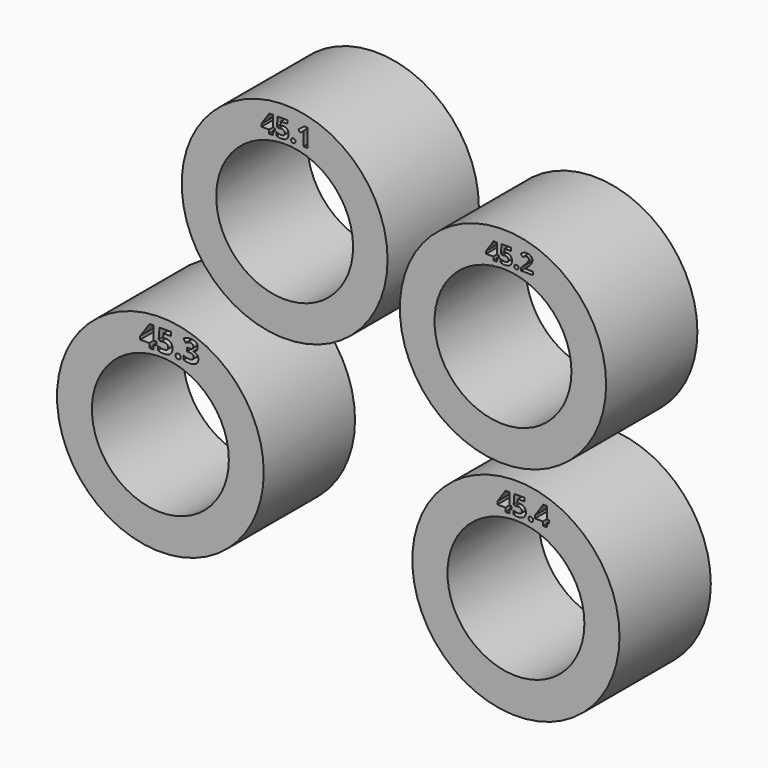
from build123d import *

# Parameters (mm, degrees)
F0_R     = 22.65
F0_R_2   = 15
F1_DEPTH = 25
F2_DEPTH = 25
F0_R_3   = 22.7
F0_R_4   = 22.6
F0_R_5   = 22.55


with BuildPart() as f1:
    # F0 (on Front) → F1 (new body)
    with BuildSketch(Plane.XZ):
        with Locations((-46.607144177, -19.3802528083)):
            Circle(F0_R)
        with Locations((-46.607144177, -19.3802528083)):
            Circle(F0_R_2, mode=Mode.SUBTRACT)
        Polygon((-47.500290726, -1.7571126155), (-47.500290726, -2.5264632786), (-48.0644812124, -2.5264632786), (-48.0644812124, -3.497896716), (-49.0328372471, -3.497896716), (-49.0328372471, -2.5264632786), (-51.0331489713, -2.5264632786), (-51.0331489713, -1.8371250844), (-48.9774439993, 1.1889875241), (-48.0644812124, 1.1889875241), (-48.0644812124, -1.7571126155), align=None, mode=Mode.SUBTRACT)
        with BuildLine():
            add(Edge.make_bspline(
                [(-43.127814457, -3.4414776674), (-43.2750168839, -3.2988913445), (-43.2750168839, -3.0393637207)],
                knots=[0, 0, 0, 1, 1, 1], degree=2))
            add(Edge.make_bspline(
                [(-43.2750168839, -3.0393637207), (-43.2750168839, -2.7706038891), (-43.1308918596, -2.6326336701)],
                knots=[0, 0, 0, 1, 1, 1], degree=2))
            add(Edge.make_bspline(
                [(-43.1308918596, -2.6326336701), (-42.9867668354, -2.4946634512), (-42.7108263975, -2.4946634512)],
                knots=[0, 0, 0, 1, 1, 1], degree=2))
            add(Edge.make_bspline(
                [(-42.7108263975, -2.4946634512), (-42.4451439685, -2.4946634512), (-42.2994802429, -2.6357110728)],
                knots=[0, 0, 0, 1, 1, 1], degree=2))
            add(Edge.make_bspline(
                [(-42.2994802429, -2.6357110728), (-42.1538165174, -2.7767586944), (-42.1538165174, -3.0393637207)],
                knots=[0, 0, 0, 1, 1, 1], degree=2))
            add(Edge.make_bspline(
                [(-42.1538165174, -3.0393637207), (-42.1538165174, -3.2927365392), (-42.3010189443, -3.4384002647)],
                knots=[0, 0, 0, 1, 1, 1], degree=2))
            add(Edge.make_bspline(
                [(-42.3010189443, -3.4384002647), (-42.4482213712, -3.5840639903), (-42.7108263975, -3.5840639903)],
                knots=[0, 0, 0, 1, 1, 1], degree=2))
            add(Edge.make_bspline(
                [(-42.7108263975, -3.5840639903), (-42.9806120301, -3.5840639903), (-43.127814457, -3.4414776674)],
                knots=[0, 0, 0, 1, 1, 1], degree=2))
        make_face(mode=Mode.SUBTRACT)
        with BuildLine():
            add(Edge.make_bspline(
                [(-45.9133767581, -0.5487191738), (-45.7174487892, -0.5035839349), (-45.4291987407, -0.5035839349)],
                knots=[0, 0, 0, 1, 1, 1], degree=2))
            add(Edge.make_bspline(
                [(-45.4291987407, -0.5035839349), (-44.7501185554, -0.5035839349), (-44.3474917083, -0.8851818639)],
                knots=[0, 0, 0, 1, 1, 1], degree=2))
            add(Edge.make_bspline(
                [(-44.3474917083, -0.8851818639), (-43.9448648613, -1.2667797928), (-43.9448648613, -1.9304729649)],
                knots=[0, 0, 0, 1, 1, 1], degree=2))
            add(Edge.make_bspline(
                [(-43.9448648613, -1.9304729649), (-43.9448648613, -2.7152106413), (-44.4290428786, -3.1388664065)],
                knots=[0, 0, 0, 1, 1, 1], degree=2))
            add(Edge.make_bspline(
                [(-44.4290428786, -3.1388664065), (-44.913220896, -3.5625221717), (-45.8138740723, -3.5625221717)],
                knots=[0, 0, 0, 1, 1, 1], degree=2))
            add(Edge.make_bspline(
                [(-45.8138740723, -3.5625221717), (-46.596560147, -3.5625221717), (-47.0766349608, -3.3091493533)],
                knots=[0, 0, 0, 1, 1, 1], degree=2))
            Line((-47.0766349608, -3.3091493533), (-47.0766349608, -2.452605615))
            add(Edge.make_bspline(
                [(-47.0766349608, -2.452605615), (-46.8242879433, -2.5869855308), (-46.4873123528, -2.6721270042)],
                knots=[0, 0, 0, 1, 1, 1], degree=2))
            add(Edge.make_bspline(
                [(-46.4873123528, -2.6721270042), (-46.1503367624, -2.7572684776), (-45.8497771033, -2.7572684776)],
                knots=[0, 0, 0, 1, 1, 1], degree=2))
            add(Edge.make_bspline(
                [(-45.8497771033, -2.7572684776), (-44.9419433207, -2.7572684776), (-44.9419433207, -2.0135628365)],
                knots=[0, 0, 0, 1, 1, 1], degree=2))
            add(Edge.make_bspline(
                [(-44.9419433207, -2.0135628365), (-44.9419433207, -1.3047344255), (-45.8815769307, -1.3047344255)],
                knots=[0, 0, 0, 1, 1, 1], degree=2))
            add(Edge.make_bspline(
                [(-45.8815769307, -1.3047344255), (-46.0508340766, -1.3047344255), (-46.2559942534, -1.3385858547)],
                knots=[0, 0, 0, 1, 1, 1], degree=2))
            add(Edge.make_bspline(
                [(-46.2559942534, -1.3385858547), (-46.4611544303, -1.3724372839), (-46.5893795408, -1.4114177175)],
                knots=[0, 0, 0, 1, 1, 1], degree=2))
            Line((-46.5893795408, -1.4114177175), (-46.9843128812, -1.1990769344))
            Line((-46.9843128812, -1.1990769344), (-46.8078751292, 1.1889875241))
            Line((-46.8078751292, 1.1889875241), (-44.265940538, 1.1889875241))
            Line((-44.265940538, 1.1889875241), (-44.265940538, 0.3488565999))
            Line((-44.265940538, 0.3488565999), (-45.9390217802, 0.3488565999))
            Line((-45.9390217802, 0.3488565999), (-46.0251890545, -0.5712867933))
            Line((-46.0251890545, -0.5712867933), (-45.9133767581, -0.5487191738))
        make_face(mode=Mode.SUBTRACT)
        with BuildLine():
            add(Edge.make_bspline(
                [(-38.843557064, 0.9607468273), (-38.4219529005, 0.6658290731), (-38.4219529005, 0.1406190204)],
                knots=[0, 0, 0, 1, 1, 1], degree=2))
            add(Edge.make_bspline(
                [(-38.4219529005, 0.1406190204), (-38.4219529005, -0.2984237581), (-38.68814823, -0.6061640233)],
                knots=[0, 0, 0, 1, 1, 1], degree=2))
            add(Edge.make_bspline(
                [(-38.68814823, -0.6061640233), (-38.9543435595, -0.9139042886), (-39.4354441742, -1.0298197885)],
                knots=[0, 0, 0, 1, 1, 1], degree=2))
            Line((-39.4354441742, -1.0298197885), (-39.4354441742, -1.0482842044))
            add(Edge.make_bspline(
                [(-39.4354441742, -1.0482842044), (-38.8671504843, -1.1190644655), (-38.5758230332, -1.393466202)],
                knots=[0, 0, 0, 1, 1, 1], degree=2))
            add(Edge.make_bspline(
                [(-38.5758230332, -1.393466202), (-38.284495582, -1.6678679385), (-38.284495582, -2.1325557391)],
                knots=[0, 0, 0, 1, 1, 1], degree=2))
            add(Edge.make_bspline(
                [(-38.284495582, -2.1325557391), (-38.284495582, -2.8085585218), (-38.7748284047, -3.1855403467)],
                knots=[0, 0, 0, 1, 1, 1], degree=2))
            add(Edge.make_bspline(
                [(-38.7748284047, -3.1855403467), (-39.2651612274, -3.5625221717), (-40.1750466117, -3.5625221717)],
                knots=[0, 0, 0, 1, 1, 1], degree=2))
            add(Edge.make_bspline(
                [(-40.1750466117, -3.5625221717), (-40.9382424696, -3.5625221717), (-41.528077978, -3.3091493533)],
                knots=[0, 0, 0, 1, 1, 1], degree=2))
            Line((-41.528077978, -3.3091493533), (-41.528077978, -2.4659410265))
            add(Edge.make_bspline(
                [(-41.528077978, -2.4659410265), (-41.2562407437, -2.6033983449), (-40.9290102616, -2.6900785197)],
                knots=[0, 0, 0, 1, 1, 1], degree=2))
            add(Edge.make_bspline(
                [(-40.9290102616, -2.6900785197), (-40.6017797795, -2.7767586944), (-40.2817299037, -2.7767586944)],
                knots=[0, 0, 0, 1, 1, 1], degree=2))
            add(Edge.make_bspline(
                [(-40.2817299037, -2.7767586944), (-39.7903712801, -2.7767586944), (-39.5564886785, -2.6100660507)],
                knots=[0, 0, 0, 1, 1, 1], degree=2))
            add(Edge.make_bspline(
                [(-39.5564886785, -2.6100660507), (-39.3226060769, -2.443373407), (-39.3226060769, -2.0740850887)],
                knots=[0, 0, 0, 1, 1, 1], degree=2))
            add(Edge.make_bspline(
                [(-39.3226060769, -2.0740850887), (-39.3226060769, -1.7448030048), (-39.591878809, -1.6068327859)],
                knots=[0, 0, 0, 1, 1, 1], degree=2))
            add(Edge.make_bspline(
                [(-39.591878809, -1.6068327859), (-39.8611515411, -1.468862567), (-40.4509870496, -1.468862567)],
                knots=[0, 0, 0, 1, 1, 1], degree=2))
            Line((-40.4509870496, -1.468862567), (-40.8069399564, -1.468862567))
            Line((-40.8069399564, -1.468862567), (-40.8069399564, -0.7087441118))
            Line((-40.8069399564, -0.7087441118), (-40.4448322442, -0.7087441118))
            add(Edge.make_bspline(
                [(-40.4448322442, -0.7087441118), (-39.9001319747, -0.7087441118), (-39.6482978576, -0.5661577889)],
                knots=[0, 0, 0, 1, 1, 1], degree=2))
            add(Edge.make_bspline(
                [(-39.6482978576, -0.5661577889), (-39.3964637406, -0.4235714659), (-39.3964637406, -0.077876568)],
                knots=[0, 0, 0, 1, 1, 1], degree=2))
            add(Edge.make_bspline(
                [(-39.3964637406, -0.077876568), (-39.3964637406, 0.454514091), (-40.0632343153, 0.454514091)],
                knots=[0, 0, 0, 1, 1, 1], degree=2))
            add(Edge.make_bspline(
                [(-40.0632343153, 0.454514091), (-40.2940395143, 0.454514091), (-40.5330511203, 0.3775790246)],
                knots=[0, 0, 0, 1, 1, 1], degree=2))
            add(Edge.make_bspline(
                [(-40.5330511203, 0.3775790246), (-40.7720627263, 0.3006439583), (-41.0633901774, 0.1118965956)],
                knots=[0, 0, 0, 1, 1, 1], degree=2))
            Line((-41.0633901774, 0.1118965956), (-41.5219231727, 0.7940541836))
            add(Edge.make_bspline(
                [(-41.5219231727, 0.7940541836), (-40.88079762, 1.2556645815), (-39.9924540543, 1.2556645815)],
                knots=[0, 0, 0, 1, 1, 1], degree=2))
            add(Edge.make_bspline(
                [(-39.9924540543, 1.2556645815), (-39.2651612274, 1.2556645815), (-38.843557064, 0.9607468273)],
                knots=[0, 0, 0, 1, 1, 1], degree=2))
        make_face(mode=Mode.SUBTRACT)
    extrude(amount=F1_DEPTH)

    # F0 (on Front) → F2 (join)
    with BuildSketch(Plane.XZ):
        with Locations((-46.607144177, -19.3802528083)):
            Circle(F0_R)
        with Locations((-46.607144177, -19.3802528083)):
            Circle(F0_R_2, mode=Mode.SUBTRACT)
        Polygon((-47.500290726, -1.7571126155), (-47.500290726, -2.5264632786), (-48.0644812124, -2.5264632786), (-48.0644812124, -3.497896716), (-49.0328372471, -3.497896716), (-49.0328372471, -2.5264632786), (-51.0331489713, -2.5264632786), (-51.0331489713, -1.8371250844), (-48.9774439993, 1.1889875241), (-48.0644812124, 1.1889875241), (-48.0644812124, -1.7571126155), align=None, mode=Mode.SUBTRACT)
        with BuildLine():
            add(Edge.make_bspline(
                [(-43.127814457, -3.4414776674), (-43.2750168839, -3.2988913445), (-43.2750168839, -3.0393637207)],
                knots=[0, 0, 0, 1, 1, 1], degree=2))
            add(Edge.make_bspline(
                [(-43.2750168839, -3.0393637207), (-43.2750168839, -2.7706038891), (-43.1308918596, -2.6326336701)],
                knots=[0, 0, 0, 1, 1, 1], degree=2))
            add(Edge.make_bspline(
                [(-43.1308918596, -2.6326336701), (-42.9867668354, -2.4946634512), (-42.7108263975, -2.4946634512)],
                knots=[0, 0, 0, 1, 1, 1], degree=2))
            add(Edge.make_bspline(
                [(-42.7108263975, -2.4946634512), (-42.4451439685, -2.4946634512), (-42.2994802429, -2.6357110728)],
                knots=[0, 0, 0, 1, 1, 1], degree=2))
            add(Edge.make_bspline(
                [(-42.2994802429, -2.6357110728), (-42.1538165174, -2.7767586944), (-42.1538165174, -3.0393637207)],
                knots=[0, 0, 0, 1, 1, 1], degree=2))
            add(Edge.make_bspline(
                [(-42.1538165174, -3.0393637207), (-42.1538165174, -3.2927365392), (-42.3010189443, -3.4384002647)],
                knots=[0, 0, 0, 1, 1, 1], degree=2))
            add(Edge.make_bspline(
                [(-42.3010189443, -3.4384002647), (-42.4482213712, -3.5840639903), (-42.7108263975, -3.5840639903)],
                knots=[0, 0, 0, 1, 1, 1], degree=2))
            add(Edge.make_bspline(
                [(-42.7108263975, -3.5840639903), (-42.9806120301, -3.5840639903), (-43.127814457, -3.4414776674)],
                knots=[0, 0, 0, 1, 1, 1], degree=2))
        make_face(mode=Mode.SUBTRACT)
        with BuildLine():
            add(Edge.make_bspline(
                [(-45.9133767581, -0.5487191738), (-45.7174487892, -0.5035839349), (-45.4291987407, -0.5035839349)],
                knots=[0, 0, 0, 1, 1, 1], degree=2))
            add(Edge.make_bspline(
                [(-45.4291987407, -0.5035839349), (-44.7501185554, -0.5035839349), (-44.3474917083, -0.8851818639)],
                knots=[0, 0, 0, 1, 1, 1], degree=2))
            add(Edge.make_bspline(
                [(-44.3474917083, -0.8851818639), (-43.9448648613, -1.2667797928), (-43.9448648613, -1.9304729649)],
                knots=[0, 0, 0, 1, 1, 1], degree=2))
            add(Edge.make_bspline(
                [(-43.9448648613, -1.9304729649), (-43.9448648613, -2.7152106413), (-44.4290428786, -3.1388664065)],
                knots=[0, 0, 0, 1, 1, 1], degree=2))
            add(Edge.make_bspline(
                [(-44.4290428786, -3.1388664065), (-44.913220896, -3.5625221717), (-45.8138740723, -3.5625221717)],
                knots=[0, 0, 0, 1, 1, 1], degree=2))
            add(Edge.make_bspline(
                [(-45.8138740723, -3.5625221717), (-46.596560147, -3.5625221717), (-47.0766349608, -3.3091493533)],
                knots=[0, 0, 0, 1, 1, 1], degree=2))
            Line((-47.0766349608, -3.3091493533), (-47.0766349608, -2.452605615))
            add(Edge.make_bspline(
                [(-47.0766349608, -2.452605615), (-46.8242879433, -2.5869855308), (-46.4873123528, -2.6721270042)],
                knots=[0, 0, 0, 1, 1, 1], degree=2))
            add(Edge.make_bspline(
                [(-46.4873123528, -2.6721270042), (-46.1503367624, -2.7572684776), (-45.8497771033, -2.7572684776)],
                knots=[0, 0, 0, 1, 1, 1], degree=2))
            add(Edge.make_bspline(
                [(-45.8497771033, -2.7572684776), (-44.9419433207, -2.7572684776), (-44.9419433207, -2.0135628365)],
                knots=[0, 0, 0, 1, 1, 1], degree=2))
            add(Edge.make_bspline(
                [(-44.9419433207, -2.0135628365), (-44.9419433207, -1.3047344255), (-45.8815769307, -1.3047344255)],
                knots=[0, 0, 0, 1, 1, 1], degree=2))
            add(Edge.make_bspline(
                [(-45.8815769307, -1.3047344255), (-46.0508340766, -1.3047344255), (-46.2559942534, -1.3385858547)],
                knots=[0, 0, 0, 1, 1, 1], degree=2))
            add(Edge.make_bspline(
                [(-46.2559942534, -1.3385858547), (-46.4611544303, -1.3724372839), (-46.5893795408, -1.4114177175)],
                knots=[0, 0, 0, 1, 1, 1], degree=2))
            Line((-46.5893795408, -1.4114177175), (-46.9843128812, -1.1990769344))
            Line((-46.9843128812, -1.1990769344), (-46.8078751292, 1.1889875241))
            Line((-46.8078751292, 1.1889875241), (-44.265940538, 1.1889875241))
            Line((-44.265940538, 1.1889875241), (-44.265940538, 0.3488565999))
            Line((-44.265940538, 0.3488565999), (-45.9390217802, 0.3488565999))
            Line((-45.9390217802, 0.3488565999), (-46.0251890545, -0.5712867933))
            Line((-46.0251890545, -0.5712867933), (-45.9133767581, -0.5487191738))
        make_face(mode=Mode.SUBTRACT)
        with BuildLine():
            add(Edge.make_bspline(
                [(-38.843557064, 0.9607468273), (-38.4219529005, 0.6658290731), (-38.4219529005, 0.1406190204)],
                knots=[0, 0, 0, 1, 1, 1], degree=2))
            add(Edge.make_bspline(
                [(-38.4219529005, 0.1406190204), (-38.4219529005, -0.2984237581), (-38.68814823, -0.6061640233)],
                knots=[0, 0, 0, 1, 1, 1], degree=2))
            add(Edge.make_bspline(
                [(-38.68814823, -0.6061640233), (-38.9543435595, -0.9139042886), (-39.4354441742, -1.0298197885)],
                knots=[0, 0, 0, 1, 1, 1], degree=2))
            Line((-39.4354441742, -1.0298197885), (-39.4354441742, -1.0482842044))
            add(Edge.make_bspline(
                [(-39.4354441742, -1.0482842044), (-38.8671504843, -1.1190644655), (-38.5758230332, -1.393466202)],
                knots=[0, 0, 0, 1, 1, 1], degree=2))
            add(Edge.make_bspline(
                [(-38.5758230332, -1.393466202), (-38.284495582, -1.6678679385), (-38.284495582, -2.1325557391)],
                knots=[0, 0, 0, 1, 1, 1], degree=2))
            add(Edge.make_bspline(
                [(-38.284495582, -2.1325557391), (-38.284495582, -2.8085585218), (-38.7748284047, -3.1855403467)],
                knots=[0, 0, 0, 1, 1, 1], degree=2))
            add(Edge.make_bspline(
                [(-38.7748284047, -3.1855403467), (-39.2651612274, -3.5625221717), (-40.1750466117, -3.5625221717)],
                knots=[0, 0, 0, 1, 1, 1], degree=2))
            add(Edge.make_bspline(
                [(-40.1750466117, -3.5625221717), (-40.9382424696, -3.5625221717), (-41.528077978, -3.3091493533)],
                knots=[0, 0, 0, 1, 1, 1], degree=2))
            Line((-41.528077978, -3.3091493533), (-41.528077978, -2.4659410265))
            add(Edge.make_bspline(
                [(-41.528077978, -2.4659410265), (-41.2562407437, -2.6033983449), (-40.9290102616, -2.6900785197)],
                knots=[0, 0, 0, 1, 1, 1], degree=2))
            add(Edge.make_bspline(
                [(-40.9290102616, -2.6900785197), (-40.6017797795, -2.7767586944), (-40.2817299037, -2.7767586944)],
                knots=[0, 0, 0, 1, 1, 1], degree=2))
            add(Edge.make_bspline(
                [(-40.2817299037, -2.7767586944), (-39.7903712801, -2.7767586944), (-39.5564886785, -2.6100660507)],
                knots=[0, 0, 0, 1, 1, 1], degree=2))
            add(Edge.make_bspline(
                [(-39.5564886785, -2.6100660507), (-39.3226060769, -2.443373407), (-39.3226060769, -2.0740850887)],
                knots=[0, 0, 0, 1, 1, 1], degree=2))
            add(Edge.make_bspline(
                [(-39.3226060769, -2.0740850887), (-39.3226060769, -1.7448030048), (-39.591878809, -1.6068327859)],
                knots=[0, 0, 0, 1, 1, 1], degree=2))
            add(Edge.make_bspline(
                [(-39.591878809, -1.6068327859), (-39.8611515411, -1.468862567), (-40.4509870496, -1.468862567)],
                knots=[0, 0, 0, 1, 1, 1], degree=2))
            Line((-40.4509870496, -1.468862567), (-40.8069399564, -1.468862567))
            Line((-40.8069399564, -1.468862567), (-40.8069399564, -0.7087441118))
            Line((-40.8069399564, -0.7087441118), (-40.4448322442, -0.7087441118))
            add(Edge.make_bspline(
                [(-40.4448322442, -0.7087441118), (-39.9001319747, -0.7087441118), (-39.6482978576, -0.5661577889)],
                knots=[0, 0, 0, 1, 1, 1], degree=2))
            add(Edge.make_bspline(
                [(-39.6482978576, -0.5661577889), (-39.3964637406, -0.4235714659), (-39.3964637406, -0.077876568)],
                knots=[0, 0, 0, 1, 1, 1], degree=2))
            add(Edge.make_bspline(
                [(-39.3964637406, -0.077876568), (-39.3964637406, 0.454514091), (-40.0632343153, 0.454514091)],
                knots=[0, 0, 0, 1, 1, 1], degree=2))
            add(Edge.make_bspline(
                [(-40.0632343153, 0.454514091), (-40.2940395143, 0.454514091), (-40.5330511203, 0.3775790246)],
                knots=[0, 0, 0, 1, 1, 1], degree=2))
            add(Edge.make_bspline(
                [(-40.5330511203, 0.3775790246), (-40.7720627263, 0.3006439583), (-41.0633901774, 0.1118965956)],
                knots=[0, 0, 0, 1, 1, 1], degree=2))
            Line((-41.0633901774, 0.1118965956), (-41.5219231727, 0.7940541836))
            add(Edge.make_bspline(
                [(-41.5219231727, 0.7940541836), (-40.88079762, 1.2556645815), (-39.9924540543, 1.2556645815)],
                knots=[0, 0, 0, 1, 1, 1], degree=2))
            add(Edge.make_bspline(
                [(-39.9924540543, 1.2556645815), (-39.2651612274, 1.2556645815), (-38.843557064, 0.9607468273)],
                knots=[0, 0, 0, 1, 1, 1], degree=2))
        make_face(mode=Mode.SUBTRACT)
    extrude(amount=F2_DEPTH)


with BuildPart() as f2:
    # F0 (on Front) → F2, piece 2 (new body)
    with BuildSketch(Plane.XZ):
        with Locations((31.2920212746, -25.6197489798)):
            Circle(F0_R_3)
        with Locations((31.2920212746, -25.6197489798)):
            Circle(F0_R_2, mode=Mode.SUBTRACT)
        Polygon((30.3396723476, -8.205504673), (30.3396723476, -8.882533287), (29.8431846974, -8.882533287), (29.8431846974, -9.7373947501), (28.9910313487, -9.7373947501), (28.9910313487, -8.882533287), (27.2307569525, -8.882533287), (27.2307569525, -8.2759156489), (29.0397774089, -5.6129364342), (29.8431846974, -5.6129364342), (29.8431846974, -8.205504673), align=None, mode=Mode.SUBTRACT)
        with BuildLine():
            add(Edge.make_bspline(
                [(34.1874516367, -9.6877459851), (34.0579134952, -9.5622700153), (34.0579134952, -9.3338856962)],
                knots=[0, 0, 0, 1, 1, 1], degree=2))
            add(Edge.make_bspline(
                [(34.0579134952, -9.3338856962), (34.0579134952, -9.0973770338), (34.1847435222, -8.9759632357)],
                knots=[0, 0, 0, 1, 1, 1], degree=2))
            add(Edge.make_bspline(
                [(34.1847435222, -8.9759632357), (34.3115735492, -8.8545494376), (34.5544011454, -8.8545494376)],
                knots=[0, 0, 0, 1, 1, 1], degree=2))
            add(Edge.make_bspline(
                [(34.5544011454, -8.8545494376), (34.7882016934, -8.8545494376), (34.9163857777, -8.9786713501)],
                knots=[0, 0, 0, 1, 1, 1], degree=2))
            add(Edge.make_bspline(
                [(34.9163857777, -8.9786713501), (35.0445698619, -9.1027932627), (35.0445698619, -9.3338856962)],
                knots=[0, 0, 0, 1, 1, 1], degree=2))
            add(Edge.make_bspline(
                [(35.0445698619, -9.3338856962), (35.0445698619, -9.5568537864), (34.9150317204, -9.6850378706)],
                knots=[0, 0, 0, 1, 1, 1], degree=2))
            add(Edge.make_bspline(
                [(34.9150317204, -9.6850378706), (34.785493579, -9.8132219549), (34.5544011454, -9.8132219549)],
                knots=[0, 0, 0, 1, 1, 1], degree=2))
            add(Edge.make_bspline(
                [(34.5544011454, -9.8132219549), (34.3169897781, -9.8132219549), (34.1874516367, -9.6877459851)],
                knots=[0, 0, 0, 1, 1, 1], degree=2))
        make_face(mode=Mode.SUBTRACT)
        with BuildLine():
            add(Edge.make_bspline(
                [(31.7361567019, -7.1421183968), (31.9085733222, -7.1023993848), (32.1622333763, -7.1023993848)],
                knots=[0, 0, 0, 1, 1, 1], degree=2))
            add(Edge.make_bspline(
                [(32.1622333763, -7.1023993848), (32.7598239661, -7.1023993848), (33.1141356074, -7.4382055773)],
                knots=[0, 0, 0, 1, 1, 1], degree=2))
            add(Edge.make_bspline(
                [(33.1141356074, -7.4382055773), (33.4684472487, -7.7740117698), (33.4684472487, -8.3580617874)],
                knots=[0, 0, 0, 1, 1, 1], degree=2))
            add(Edge.make_bspline(
                [(33.4684472487, -8.3580617874), (33.4684472487, -9.0486309736), (33.0423705743, -9.4214480636)],
                knots=[0, 0, 0, 1, 1, 1], degree=2))
            add(Edge.make_bspline(
                [(33.0423705743, -9.4214480636), (32.6162939, -9.7942651537), (31.8237190693, -9.7942651537)],
                knots=[0, 0, 0, 1, 1, 1], degree=2))
            add(Edge.make_bspline(
                [(31.8237190693, -9.7942651537), (31.1349552928, -9.7942651537), (30.7124894377, -9.5712970635)],
                knots=[0, 0, 0, 1, 1, 1], degree=2))
            Line((30.7124894377, -9.5712970635), (30.7124894377, -8.81753854))
            add(Edge.make_bspline(
                [(30.7124894377, -8.81753854), (30.934554823, -8.9357928712), (31.2310933559, -9.0107173712)],
                knots=[0, 0, 0, 1, 1, 1], degree=2))
            add(Edge.make_bspline(
                [(31.2310933559, -9.0107173712), (31.5276318888, -9.0856418711), (31.7921244007, -9.0856418711)],
                knots=[0, 0, 0, 1, 1, 1], degree=2))
            add(Edge.make_bspline(
                [(31.7921244007, -9.0856418711), (32.5910181651, -9.0856418711), (32.5910181651, -8.4311808777)],
                knots=[0, 0, 0, 1, 1, 1], degree=2))
            add(Edge.make_bspline(
                [(32.5910181651, -8.4311808777), (32.5910181651, -7.8074118481), (31.7641405513, -7.8074118481)],
                knots=[0, 0, 0, 1, 1, 1], degree=2))
            add(Edge.make_bspline(
                [(31.7641405513, -7.8074118481), (31.6151942562, -7.8074118481), (31.4346532925, -7.8372011071)],
                knots=[0, 0, 0, 1, 1, 1], degree=2))
            add(Edge.make_bspline(
                [(31.4346532925, -7.8372011071), (31.2541123288, -7.8669903661), (31.1412742265, -7.9012931492)],
                knots=[0, 0, 0, 1, 1, 1], degree=2))
            Line((31.1412742265, -7.9012931492), (30.7937328713, -7.7144332517))
            Line((30.7937328713, -7.7144332517), (30.9489981001, -5.6129364342))
            Line((30.9489981001, -5.6129364342), (33.1859006405, -5.6129364342))
            Line((33.1859006405, -5.6129364342), (33.1859006405, -6.3522516806))
            Line((33.1859006405, -6.3522516806), (31.7135890814, -6.3522516806))
            Line((31.7135890814, -6.3522516806), (31.6377618767, -7.1619779028))
            Line((31.6377618767, -7.1619779028), (31.7361567019, -7.1421183968))
        make_face(mode=Mode.SUBTRACT)
        Polygon((38.5822700458, -8.205504673), (38.5822700458, -8.882533287), (38.0857823956, -8.882533287), (38.0857823956, -9.7373947501), (37.2336290469, -9.7373947501), (37.2336290469, -8.882533287), (35.4733546507, -8.882533287), (35.4733546507, -8.2759156489), (37.2823751071, -5.6129364342), (38.0857823956, -5.6129364342), (38.0857823956, -8.205504673), align=None, mode=Mode.SUBTRACT)
    extrude(amount=F2_DEPTH)


with BuildPart() as f2b:
    # F0 (on Front) → F2, piece 3 (new body)
    with BuildSketch(Plane.XZ):
        with Locations((28.4558851272, 22.027309984)):
            Circle(F0_R_4)
        with Locations((28.4558851272, 22.027309984)):
            Circle(F0_R_2, mode=Mode.SUBTRACT)
        Polygon((27.5901129062, 39.3022877688), (27.5901129062, 38.6868072383), (27.1387605171, 38.6868072383), (27.1387605171, 37.9096604884), (26.3640756893, 37.9096604884), (26.3640756893, 38.6868072383), (24.7638263099, 38.6868072383), (24.7638263099, 39.2382777936), (26.4083902875, 41.6591678804), (27.1387605171, 41.6591678804), (27.1387605171, 39.3022877688), align=None, mode=Mode.SUBTRACT)
        with BuildLine():
            add(Edge.make_bspline(
                [(28.8596440805, 40.2690025221), (29.0163864556, 40.3051107132), (29.2469864944, 40.3051107132)],
                knots=[0, 0, 0, 1, 1, 1], degree=2))
            add(Edge.make_bspline(
                [(29.2469864944, 40.3051107132), (29.7902506427, 40.3051107132), (30.1123521203, 39.9998323701)],
                knots=[0, 0, 0, 1, 1, 1], degree=2))
            add(Edge.make_bspline(
                [(30.1123521203, 39.9998323701), (30.434453598, 39.6945540269), (30.434453598, 39.1635994893)],
                knots=[0, 0, 0, 1, 1, 1], degree=2))
            add(Edge.make_bspline(
                [(30.434453598, 39.1635994893), (30.434453598, 38.5358093481), (30.0471111841, 38.196884736)],
                knots=[0, 0, 0, 1, 1, 1], degree=2))
            add(Edge.make_bspline(
                [(30.0471111841, 38.196884736), (29.6597687702, 37.8579601238), (28.9392462291, 37.8579601238)],
                knots=[0, 0, 0, 1, 1, 1], degree=2))
            add(Edge.make_bspline(
                [(28.9392462291, 37.8579601238), (28.3130973694, 37.8579601238), (27.9290375183, 38.0606583785)],
                knots=[0, 0, 0, 1, 1, 1], degree=2))
            Line((27.9290375183, 38.0606583785), (27.9290375183, 38.7458933692))
            add(Edge.make_bspline(
                [(27.9290375183, 38.7458933692), (28.1309151324, 38.6383894365), (28.4004956047, 38.5702762578)],
                knots=[0, 0, 0, 1, 1, 1], degree=2))
            add(Edge.make_bspline(
                [(28.4004956047, 38.5702762578), (28.6700760771, 38.5021630791), (28.9105238044, 38.5021630791)],
                knots=[0, 0, 0, 1, 1, 1], degree=2))
            add(Edge.make_bspline(
                [(28.9105238044, 38.5021630791), (29.6367908304, 38.5021630791), (29.6367908304, 39.097127592)],
                knots=[0, 0, 0, 1, 1, 1], degree=2))
            add(Edge.make_bspline(
                [(29.6367908304, 39.097127592), (29.6367908304, 39.6641903208), (28.8850839424, 39.6641903208)],
                knots=[0, 0, 0, 1, 1, 1], degree=2))
            add(Edge.make_bspline(
                [(28.8850839424, 39.6641903208), (28.7496782257, 39.6641903208), (28.5855500842, 39.6371091774)],
                knots=[0, 0, 0, 1, 1, 1], degree=2))
            add(Edge.make_bspline(
                [(28.5855500842, 39.6371091774), (28.4214219428, 39.6100280341), (28.3188418543, 39.5788436872)],
                knots=[0, 0, 0, 1, 1, 1], degree=2))
            Line((28.3188418543, 39.5788436872), (28.002895182, 39.7487163136))
            Line((28.002895182, 39.7487163136), (28.1440453837, 41.6591678804))
            Line((28.1440453837, 41.6591678804), (30.1775930566, 41.6591678804))
            Line((30.1775930566, 41.6591678804), (30.1775930566, 40.9870631411))
            Line((30.1775930566, 40.9870631411), (28.8391280628, 40.9870631411))
            Line((28.8391280628, 40.9870631411), (28.7701942434, 40.2509484265))
            Line((28.7701942434, 40.2509484265), (28.8596440805, 40.2690025221))
        make_face(mode=Mode.SUBTRACT)
        with BuildLine():
            add(Edge.make_bspline(
                [(31.0880939214, 37.9547957273), (30.9703319799, 38.0688647856), (30.9703319799, 38.2764868846)],
                knots=[0, 0, 0, 1, 1, 1], degree=2))
            add(Edge.make_bspline(
                [(30.9703319799, 38.2764868846), (30.9703319799, 38.4914947499), (31.0856319993, 38.601870925)],
                knots=[0, 0, 0, 1, 1, 1], degree=2))
            add(Edge.make_bspline(
                [(31.0856319993, 38.601870925), (31.2009320187, 38.7122471002), (31.421684369, 38.7122471002)],
                knots=[0, 0, 0, 1, 1, 1], degree=2))
            add(Edge.make_bspline(
                [(31.421684369, 38.7122471002), (31.6342303122, 38.7122471002), (31.7507612926, 38.5994090029)],
                knots=[0, 0, 0, 1, 1, 1], degree=2))
            add(Edge.make_bspline(
                [(31.7507612926, 38.5994090029), (31.8672922731, 38.4865709057), (31.8672922731, 38.2764868846)],
                knots=[0, 0, 0, 1, 1, 1], degree=2))
            add(Edge.make_bspline(
                [(31.8672922731, 38.2764868846), (31.8672922731, 38.0737886298), (31.7495303316, 37.9572576494)],
                knots=[0, 0, 0, 1, 1, 1], degree=2))
            add(Edge.make_bspline(
                [(31.7495303316, 37.9572576494), (31.6317683901, 37.8407266689), (31.421684369, 37.8407266689)],
                knots=[0, 0, 0, 1, 1, 1], degree=2))
            add(Edge.make_bspline(
                [(31.421684369, 37.8407266689), (31.2058558629, 37.8407266689), (31.0880939214, 37.9547957273)],
                knots=[0, 0, 0, 1, 1, 1], degree=2))
        make_face(mode=Mode.SUBTRACT)
        with BuildLine():
            Line((34.9988572125, 38.5768413835), (34.9988572125, 37.9096604884))
            Line((34.9988572125, 37.9096604884), (32.3777307931, 37.9096604884))
            Line((32.3777307931, 37.9096604884), (32.3777307931, 38.4611310437))
            Line((32.3777307931, 38.4611310437), (33.3190056845, 39.4122536236))
            add(Edge.make_bspline(
                [(33.3190056845, 39.4122536236), (33.7375324452, 39.8406280729), (33.8655523956, 40.0059871754)],
                knots=[0, 0, 0, 1, 1, 1], degree=2))
            add(Edge.make_bspline(
                [(33.8655523956, 40.0059871754), (33.9935723459, 40.1713462779), (34.0501965547, 40.3124964796)],
                knots=[0, 0, 0, 1, 1, 1], degree=2))
            add(Edge.make_bspline(
                [(34.0501965547, 40.3124964796), (34.1068207636, 40.4536466813), (34.1068207636, 40.6046445714)],
                knots=[0, 0, 0, 1, 1, 1], degree=2))
            add(Edge.make_bspline(
                [(34.1068207636, 40.6046445714), (34.1068207636, 40.830320766), (33.982083376, 40.9406969411)],
                knots=[0, 0, 0, 1, 1, 1], degree=2))
            add(Edge.make_bspline(
                [(33.982083376, 40.9406969411), (33.8573459885, 41.0510731163), (33.6497238895, 41.0510731163)],
                knots=[0, 0, 0, 1, 1, 1], degree=2))
            add(Edge.make_bspline(
                [(33.6497238895, 41.0510731163), (33.4322541021, 41.0510731163), (33.2270939252, 40.9509549499)],
                knots=[0, 0, 0, 1, 1, 1], degree=2))
            add(Edge.make_bspline(
                [(33.2270939252, 40.9509549499), (33.0219337484, 40.8508367836), (32.798719476, 40.6661926245)],
                knots=[0, 0, 0, 1, 1, 1], degree=2))
            Line((32.798719476, 40.6661926245), (32.3678831046, 41.1766311445))
            add(Edge.make_bspline(
                [(32.3678831046, 41.1766311445), (32.644439023, 41.4129756682), (32.82662126, 41.510221592)],
                knots=[0, 0, 0, 1, 1, 1], degree=2))
            add(Edge.make_bspline(
                [(32.82662126, 41.510221592), (33.0088034971, 41.6074675159), (33.2242216828, 41.6599885211)],
                knots=[0, 0, 0, 1, 1, 1], degree=2))
            add(Edge.make_bspline(
                [(33.2242216828, 41.6599885211), (33.4396398684, 41.7125095264), (33.7063480983, 41.7125095264)],
                knots=[0, 0, 0, 1, 1, 1], degree=2))
            add(Edge.make_bspline(
                [(33.7063480983, 41.7125095264), (34.0575823211, 41.7125095264), (34.3267524731, 41.5844895761)],
                knots=[0, 0, 0, 1, 1, 1], degree=2))
            add(Edge.make_bspline(
                [(34.3267524731, 41.5844895761), (34.5959226252, 41.4564696257), (34.7448689135, 41.2254592666)],
                knots=[0, 0, 0, 1, 1, 1], degree=2))
            add(Edge.make_bspline(
                [(34.7448689135, 41.2254592666), (34.8938152019, 40.9944489074), (34.8938152019, 40.6973769714)],
                knots=[0, 0, 0, 1, 1, 1], degree=2))
            add(Edge.make_bspline(
                [(34.8938152019, 40.6973769714), (34.8938152019, 40.4380545078), (34.8027240834, 40.2111473522)],
                knots=[0, 0, 0, 1, 1, 1], degree=2))
            add(Edge.make_bspline(
                [(34.8027240834, 40.2111473522), (34.7116329649, 39.9842401966), (34.5204236801, 39.7458440711)],
                knots=[0, 0, 0, 1, 1, 1], degree=2))
            add(Edge.make_bspline(
                [(34.5204236801, 39.7458440711), (34.3292143953, 39.5074479457), (33.8474983, 39.0659432451)],
                knots=[0, 0, 0, 1, 1, 1], degree=2))
            Line((33.8474983, 39.0659432451), (33.3649615641, 38.6121289339))
            Line((33.3649615641, 38.6121289339), (33.3649615641, 38.5768413835))
            Line((33.3649615641, 38.5768413835), (34.9988572125, 38.5768413835))
        make_face(mode=Mode.SUBTRACT)
    extrude(amount=F2_DEPTH)


with BuildPart() as f2c:
    # F0 (on Front) → F2, piece 4 (new body)
    with BuildSketch(Plane.XZ):
        with Locations((-19.3802528083, 30.5357147008)):
            Circle(F0_R_5)
        with Locations((-19.3802528083, 30.5357147008)):
            Circle(F0_R_2, mode=Mode.SUBTRACT)
        with BuildLine():
            add(Edge.make_bspline(
                [(-20.1656357482, 48.8469762988), (-20.0010561926, 48.8848899137), (-19.758926061, 48.8848899137)],
                knots=[0, 0, 0, 1, 1, 1], degree=2))
            add(Edge.make_bspline(
                [(-19.758926061, 48.8848899137), (-19.1884984912, 48.8848899137), (-18.8502918128, 48.5643475331)],
                knots=[0, 0, 0, 1, 1, 1], degree=2))
            add(Edge.make_bspline(
                [(-18.8502918128, 48.5643475331), (-18.5120851343, 48.2438051525), (-18.5120851343, 47.6863026787)],
                knots=[0, 0, 0, 1, 1, 1], degree=2))
            add(Edge.make_bspline(
                [(-18.5120851343, 47.6863026787), (-18.5120851343, 47.0271227831), (-18.9187948215, 46.6712518068)],
                knots=[0, 0, 0, 1, 1, 1], degree=2))
            add(Edge.make_bspline(
                [(-18.9187948215, 46.6712518068), (-19.3255045087, 46.3153808305), (-20.0820534608, 46.3153808305)],
                knots=[0, 0, 0, 1, 1, 1], degree=2))
            add(Edge.make_bspline(
                [(-20.0820534608, 46.3153808305), (-20.7395100103, 46.3153808305), (-21.1427730052, 46.5282140778)],
                knots=[0, 0, 0, 1, 1, 1], degree=2))
            Line((-21.1427730052, 46.5282140778), (-21.1427730052, 47.247711088))
            add(Edge.make_bspline(
                [(-21.1427730052, 47.247711088), (-20.9308014309, 47.1348319164), (-20.6477418287, 47.0633130519)],
                knots=[0, 0, 0, 1, 1, 1], degree=2))
            add(Edge.make_bspline(
                [(-20.6477418287, 47.0633130519), (-20.3646822265, 46.9917941874), (-20.1122120181, 46.9917941874)],
                knots=[0, 0, 0, 1, 1, 1], degree=2))
            add(Edge.make_bspline(
                [(-20.1122120181, 46.9917941874), (-19.3496313546, 46.9917941874), (-19.3496313546, 47.6165071604)],
                knots=[0, 0, 0, 1, 1, 1], degree=2))
            add(Edge.make_bspline(
                [(-19.3496313546, 47.6165071604), (-19.3496313546, 48.2119232491), (-20.1389238832, 48.2119232491)],
                knots=[0, 0, 0, 1, 1, 1], degree=2))
            add(Edge.make_bspline(
                [(-20.1389238832, 48.2119232491), (-20.2810999391, 48.2119232491), (-20.4534345523, 48.1834880379)],
                knots=[0, 0, 0, 1, 1, 1], degree=2))
            add(Edge.make_bspline(
                [(-20.4534345523, 48.1834880379), (-20.6257691655, 48.1550528267), (-20.7334782988, 48.1223092502)],
                knots=[0, 0, 0, 1, 1, 1], degree=2))
            Line((-20.7334782988, 48.1223092502), (-21.0652224293, 48.3006755749))
            Line((-21.0652224293, 48.3006755749), (-20.9170146619, 50.3066504728))
            Line((-20.9170146619, 50.3066504728), (-18.781788804, 50.3066504728))
            Line((-18.781788804, 50.3066504728), (-18.781788804, 49.6009402317))
            Line((-18.781788804, 49.6009402317), (-20.1871775749, 49.6009402317))
            Line((-20.1871775749, 49.6009402317), (-20.2595581124, 48.8280194913))
            Line((-20.2595581124, 48.8280194913), (-20.1656357482, 48.8469762988))
        make_face(mode=Mode.SUBTRACT)
        Polygon((-21.4986439815, 47.8319254269), (-21.4986439815, 47.1856706273), (-21.9725641679, 47.1856706273), (-21.9725641679, 46.3696662337), (-22.7859835423, 46.3696662337), (-22.7859835423, 47.1856706273), (-24.4662460213, 47.1856706273), (-24.4662460213, 47.7647149277), (-22.7394531968, 50.3066504728), (-21.9725641679, 50.3066504728), (-21.9725641679, 47.8319254269), align=None, mode=Mode.SUBTRACT)
        with BuildLine():
            add(Edge.make_bspline(
                [(-17.8257625371, 46.4170582523), (-17.9494126221, 46.5368308085), (-17.9494126221, 46.7548340942)],
                knots=[0, 0, 0, 1, 1, 1], degree=2))
            add(Edge.make_bspline(
                [(-17.9494126221, 46.7548340942), (-17.9494126221, 46.9805924375), (-17.8283475563, 47.0964874649)],
                knots=[0, 0, 0, 1, 1, 1], degree=2))
            add(Edge.make_bspline(
                [(-17.8283475563, 47.0964874649), (-17.7072824905, 47.2123824923), (-17.4754924358, 47.2123824923)],
                knots=[0, 0, 0, 1, 1, 1], degree=2))
            add(Edge.make_bspline(
                [(-17.4754924358, 47.2123824923), (-17.2523191116, 47.2123824923), (-17.1299615362, 47.0939024457)],
                knots=[0, 0, 0, 1, 1, 1], degree=2))
            add(Edge.make_bspline(
                [(-17.1299615362, 47.0939024457), (-17.0076039608, 46.9754223992), (-17.0076039608, 46.7548340942)],
                knots=[0, 0, 0, 1, 1, 1], degree=2))
            add(Edge.make_bspline(
                [(-17.0076039608, 46.7548340942), (-17.0076039608, 46.5420008469), (-17.1312540458, 46.4196432715)],
                knots=[0, 0, 0, 1, 1, 1], degree=2))
            add(Edge.make_bspline(
                [(-17.1312540458, 46.4196432715), (-17.2549041308, 46.2972856961), (-17.4754924358, 46.2972856961)],
                knots=[0, 0, 0, 1, 1, 1], degree=2))
            add(Edge.make_bspline(
                [(-17.4754924358, 46.2972856961), (-17.7021124521, 46.2972856961), (-17.8257625371, 46.4170582523)],
                knots=[0, 0, 0, 1, 1, 1], degree=2))
        make_face(mode=Mode.SUBTRACT)
        with BuildLine():
            Line((-14.4139680318, 50.3066504728), (-14.4139680318, 46.3696662337))
            Line((-14.4139680318, 46.3696662337), (-15.2463442137, 46.3696662337))
            Line((-15.2463442137, 46.3696662337), (-15.2463442137, 48.6479298205))
            Line((-15.2463442137, 48.6479298205), (-15.237727483, 49.0218959312))
            Line((-15.237727483, 49.0218959312), (-15.224802387, 49.4311906376))
            add(Edge.make_bspline(
                [(-15.224802387, 49.4311906376), (-15.4316039229, 49.2243891018), (-15.5126011911, 49.1597636218)],
                knots=[0, 0, 0, 1, 1, 1], degree=2))
            Line((-15.5126011911, 49.1597636218), (-15.9649795508, 48.7961375879))
            Line((-15.9649795508, 48.7961375879), (-16.3665191996, 49.2967696393))
            Line((-16.3665191996, 49.2967696393), (-15.0981364463, 50.3066504728))
            Line((-15.0981364463, 50.3066504728), (-14.4139680318, 50.3066504728))
        make_face(mode=Mode.SUBTRACT)
    extrude(amount=F2_DEPTH)


solid = Compound([f1.part, f2.part, f2b.part, f2c.part])
